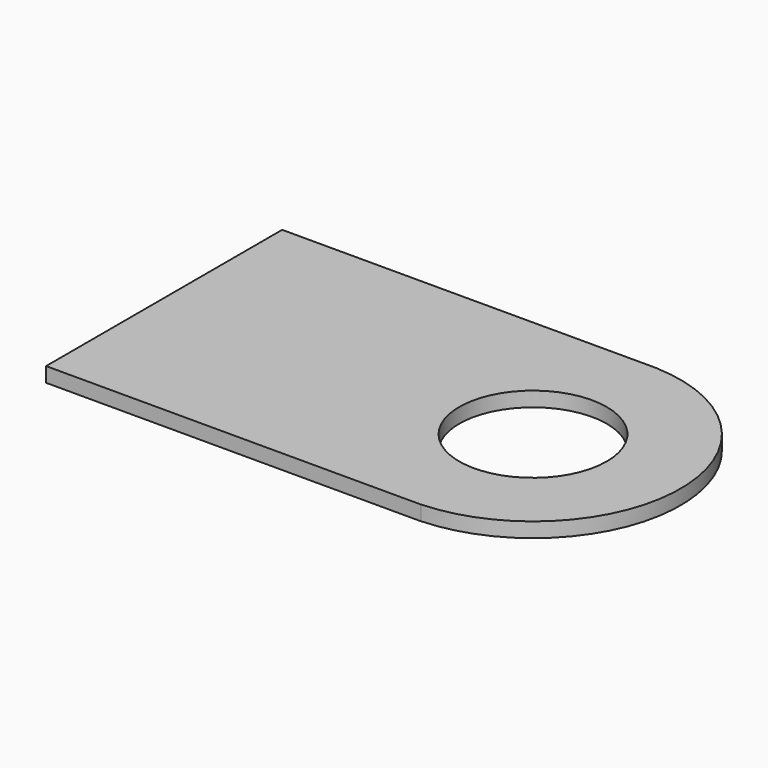
from build123d import *

# Parameters (mm, degrees)
CYLINDER017_R     = 0.5
CYLINDER017_DEPTH = 0.1
BOX008_W          = 2.54
BOX008_H          = 2
BOX008_DEPTH      = 0.1
CYLINDER016_R     = 0.5
CYLINDER016_DEPTH = 0.1
CYLINDER015_R     = 1
CYLINDER015_DEPTH = 0.1


with BuildPart() as cylinder017:
    # Cylinder017 → Cylinder017 (new body)
    with BuildSketch(Plane.XY.offset(1)):
        Circle(CYLINDER017_R)
    extrude(amount=CYLINDER017_DEPTH)


with BuildPart() as cut012:
    # Box008 → Box008 (new body)
    with BuildSketch(Plane(origin=(-2.5, -1, 1), x_dir=(1, 0, 0), z_dir=(0, 0, 1))):
        with Locations((1.27, 1)):
            Rectangle(BOX008_W, BOX008_H)
    extrude(amount=BOX008_DEPTH)

    # Cut012: cut Cylinder017
    add(cylinder017.part, mode=Mode.SUBTRACT)


with BuildPart() as cylinder016:
    # Cylinder016 → Cylinder016 (new body)
    with BuildSketch(Plane.XY.offset(1)):
        Circle(CYLINDER016_R)
    extrude(amount=CYLINDER016_DEPTH)


with BuildPart() as fusion005:
    # Cylinder015 → Cylinder015 (new body)
    with BuildSketch(Plane.XY.offset(1)):
        Circle(CYLINDER015_R)
    extrude(amount=CYLINDER015_DEPTH)

    # Cut011: cut Cylinder016
    add(cylinder016.part, mode=Mode.SUBTRACT)

    # Fusion005: union Cut012
    add(cut012.part)


with BuildPart() as fusion005_1:
    # Fusion005 placement: moved
    add(fusion005.part.moved(Location((0, -12.7, 5.5))))


solid = fusion005_1.part
